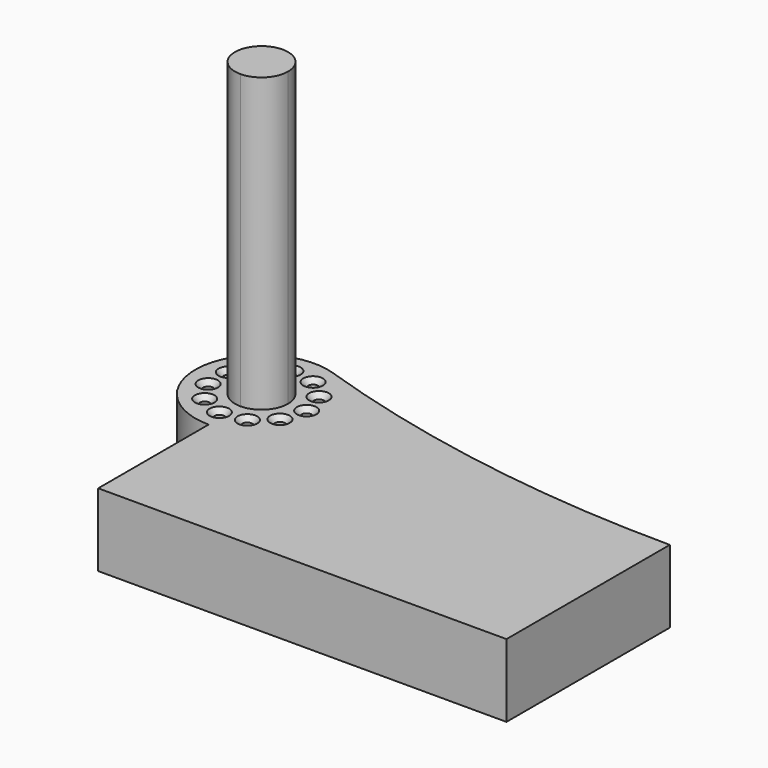
from build123d import *

# Parameters (mm, degrees)
F1_DEPTH       = 25
F2_DEPTH       = 125.3
F4_D           = 3.4
F4_CSINK_D     = 6.72
F4_CSINK_ANGLE = 90


with BuildPart() as f1:
    # F0 (on Top) → F1 (new body)
    with BuildSketch(Plane.XY):
        with BuildLine():
            ThreePointArc((-62.8427357979, 56.5156830348), (-92.3832190301, 38.6252659436), (-70, 12.3251009415))
            Line((-70, 12.3251009415), (-70, 25.9029745303))
            ThreePointArc((-70, 25.9029745303), (-76.4325683983, 41.4325683983), (-60.9029745303, 35))
            Line((-60.9029745303, 35), (-47.3251009415, 35))
            ThreePointArc((-47.3251009415, 35), (-51.6092239067, 48.2638758286), (-62.8427357979, 56.5156830348))
        make_face()
        with BuildLine():
            Line((-70, 25.9029745303), (-70, 12.3251009415))
            ThreePointArc((-70, 12.3251009415), (-53.966425113, 18.966425113), (-47.3251009415, 35))
            Line((-47.3251009415, 35), (-60.9029745303, 35))
            ThreePointArc((-60.9029745303, 35), (-63.5674316017, 28.5674316017), (-70, 25.9029745303))
        make_face()
        with BuildLine():
            Line((-70, -35), (70, -35))
            Line((70, -35), (70, 35))
            Line((70, 35), (-47.3251009415, 35))
            ThreePointArc((-47.3251009415, 35), (-53.966425113, 18.966425113), (-70, 12.3251009415))
            Line((-70, 12.3251009415), (-70, -35))
        make_face()
        with BuildLine():
            Line((-47.3251009415, 35), (70, 35))
            ThreePointArc((70, 35), (2.7130824924, 40.4137407606), (-62.8427357979, 56.5156830348))
            ThreePointArc((-62.8427357979, 56.5156830348), (-51.6092239067, 48.2638758286), (-47.3251009415, 35))
        make_face()
    extrude(amount=F1_DEPTH)

    # F4 (through all)
    with Locations(Plane.XY.offset(25)):
        with Locations((-72.201987185, 50.3151572729), (-63.5724303511, 49.0744143134), (-80.1324286461, 46.69344601), (-56.9835814657, 43.3651442545), (-54.5273534954, 35), (-56.9835814657, 26.6348557455), (-63.5724303511, 20.9255856866), (-72.201987185, 19.6848427271), (-80.1324286461, 23.30655399), (-84.8458956044, 30.6408517391), (-84.8458956044, 39.3591482609)):
            CounterSinkHole(F4_D / 2, F4_CSINK_D / 2, counter_sink_angle=F4_CSINK_ANGLE)


with BuildPart() as f2:
    # F0 (on Top) → F2 (new body)
    with BuildSketch(Plane.XY):
        with BuildLine():
            ThreePointArc((-60.9029745303, 35), (-76.4325683983, 41.4325683983), (-70, 25.9029745303))
            Line((-70, 25.9029745303), (-70, 35))
            Line((-70, 35), (-60.9029745303, 35))
        make_face()
        with BuildLine():
            Line((-70, 35), (-70, 25.9029745303))
            ThreePointArc((-70, 25.9029745303), (-63.5674316017, 28.5674316017), (-60.9029745303, 35))
            Line((-60.9029745303, 35), (-70, 35))
        make_face()
    extrude(amount=F2_DEPTH)


solid = Compound([f1.part, f2.part])
